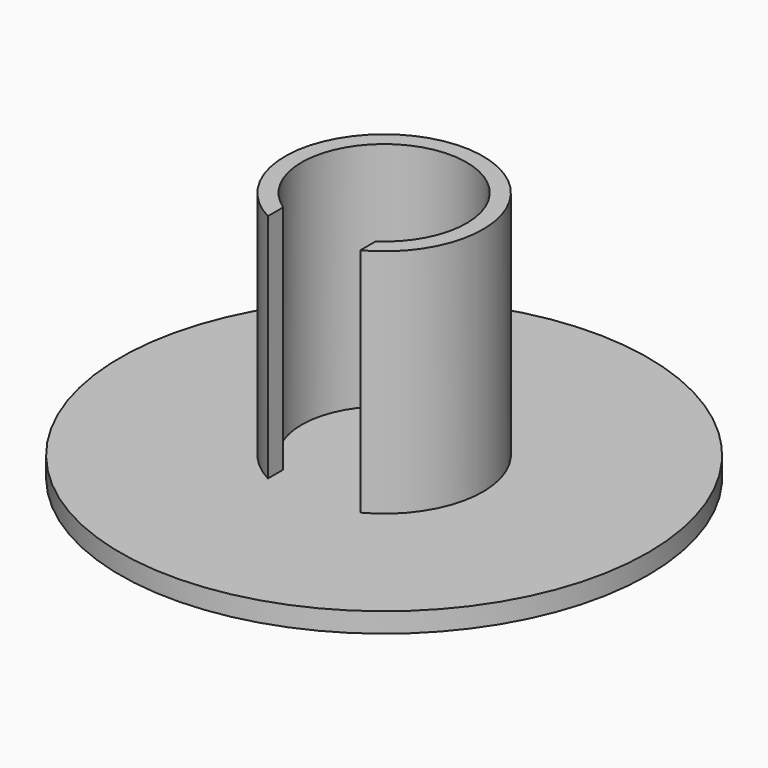
from build123d import *

# Parameters (mm, degrees)
F0_R     = 40
F1_DEPTH = 3
F2_R     = 15
F2_R_2   = 12.5
F3_DEPTH = 35
F4_W     = 14
F4_H     = 50
F5_DEPTH = 35


with BuildPart() as f1:
    # F0 (on Top) → F1 (new body)
    with BuildSketch(Plane.XY):
        Circle(F0_R)
    extrude(amount=F1_DEPTH)

    # F2 (on face) → F3 (join)
    with BuildSketch(Plane.XY.offset(3)):
        Circle(F2_R)
        Circle(F2_R_2, mode=Mode.SUBTRACT)
    extrude(amount=F3_DEPTH)

    # F4 (on face) → F5 (cut)
    with BuildSketch(Plane.XY.offset(38)):
        with Locations((0, -25)):
            Rectangle(F4_W, F4_H)
    extrude(amount=-F5_DEPTH, mode=Mode.SUBTRACT)


solid = f1.part
